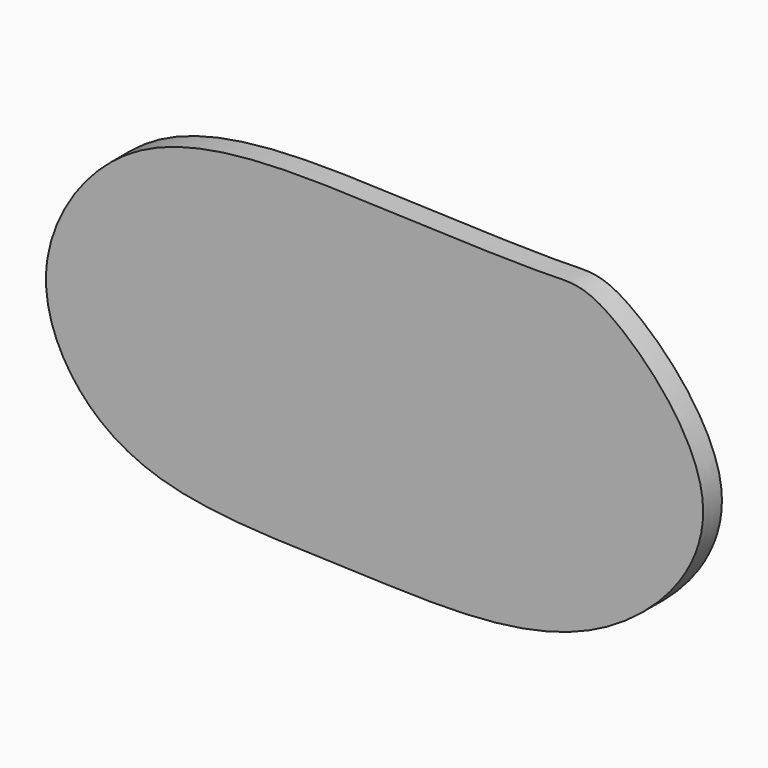
from build123d import *

# Parameters (mm, degrees)
F1_DEPTH = 3


with BuildPart() as f1:
    # F0 (on Front) → F1 (new body)
    with BuildSketch(Plane.XZ):
        with BuildLine():
            add(Edge.make_bspline(
                [(-64.0367791057, 0), (-63.1094110449, 5.9767019104), (-53.072919088, 20.74204971), (-22.8359081833, 19.608138423), (-0.1048737354, 18.7270964951), (6.6840022516, 19.5375468902), (27.2151497874, -0.509437853), (5.6957336521, -24.1332558244), (-24.3887829937, -22.1600567679), (-49.2350458344, -22.0994737759), (-61.5856777752, -13.6659067246), (-64.7853258869, -4.824234483), (-64.0367791057, 0)],
                knots=[0, 0, 0, 0, 0.1005951709, 0.2236165984, 0.3287965633, 0.3862740476, 0.4919167938, 0.6018507557, 0.7253908397, 0.8364859932, 0.9188022592, 1, 1, 1, 1], degree=3))
        make_face()
    extrude(amount=F1_DEPTH)


solid = f1.part
